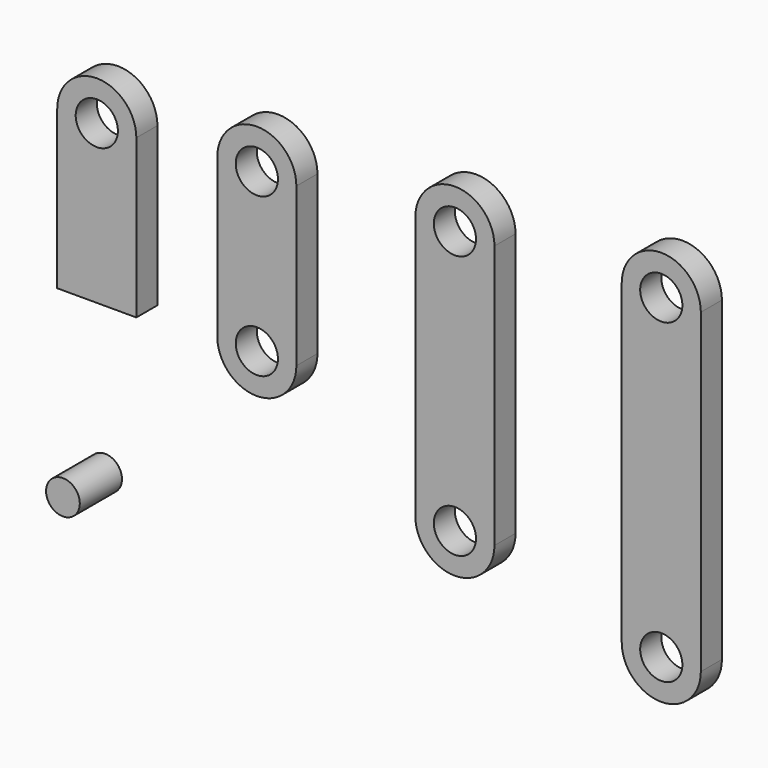
from build123d import *

# Parameters (mm, degrees)
F1_DEPTH = 2.5
F3_DEPTH = 2.5
F5_DEPTH = 2.5
F7_DEPTH = 2.5
F8_R     = 3.2
F9_DEPTH = 5


with BuildPart() as f1:
    # F0 (on Front) → F1 (new body, symmetric)
    with BuildSketch(Plane.XZ):
        with BuildLine():
            ThreePointArc((-56.3655619472, 52.3408753172), (-52.3655619472, 56.3408753172), (-48.3655619472, 52.3408753172))
            Line((-48.3655619472, 52.3408753172), (-44.8655619472, 52.3408753172))
            ThreePointArc((-44.8655619472, 52.3408753172), (-52.3655619472, 59.8408753172), (-59.8655619472, 52.3408753172))
            Line((-59.8655619472, 52.3408753172), (-56.3655619472, 52.3408753172))
        make_face()
        with BuildLine():
            Line((-44.8655619472, 52.3408753172), (-48.3655619472, 52.3408753172))
            ThreePointArc((-48.3655619472, 52.3408753172), (-52.3655619472, 48.3408753172), (-56.3655619472, 52.3408753172))
            Line((-56.3655619472, 52.3408753172), (-59.8655619472, 52.3408753172))
            Line((-59.8655619472, 52.3408753172), (-59.8655619472, 22.3408753172))
            Line((-59.8655619472, 22.3408753172), (-44.8655619472, 22.3408753172))
            Line((-44.8655619472, 22.3408753172), (-44.8655619472, 52.3408753172))
        make_face()
    extrude(amount=F1_DEPTH, both=True)


with BuildPart() as f3:
    # F2 (on Front) → F3 (new body, symmetric)
    with BuildSketch(Plane.XZ):
        with BuildLine():
            ThreePointArc((-26.0166939691, 54.1555335373), (-22.0166939691, 58.1555335373), (-18.0166939691, 54.1555335373))
            Line((-18.0166939691, 54.1555335373), (-14.5166939691, 54.1555335373))
            ThreePointArc((-14.5166939691, 54.1555335373), (-22.0166939691, 61.6555335373), (-29.5166939691, 54.1555335373))
            Line((-29.5166939691, 54.1555335373), (-26.0166939691, 54.1555335373))
        make_face()
        with BuildLine():
            Line((-14.5166939691, 54.1555335373), (-18.0166939691, 54.1555335373))
            ThreePointArc((-18.0166939691, 54.1555335373), (-22.0166939691, 50.1555335373), (-26.0166939691, 54.1555335373))
            Line((-26.0166939691, 54.1555335373), (-29.5166939691, 54.1555335373))
            Line((-29.5166939691, 54.1555335373), (-29.5166939691, 24.1555335373))
            Line((-29.5166939691, 24.1555335373), (-26.0166939691, 24.1555335373))
            ThreePointArc((-26.0166939691, 24.1555335373), (-22.0166939691, 28.1555335373), (-18.0166939691, 24.1555335373))
            Line((-18.0166939691, 24.1555335373), (-14.5166939691, 24.1555335373))
            Line((-14.5166939691, 24.1555335373), (-14.5166939691, 54.1555335373))
        make_face()
        with BuildLine():
            ThreePointArc((-29.5166939691, 24.1555335373), (-22.0166939691, 16.6555335373), (-14.5166939691, 24.1555335373))
            Line((-14.5166939691, 24.1555335373), (-18.0166939691, 24.1555335373))
            ThreePointArc((-18.0166939691, 24.1555335373), (-22.0166939691, 20.1555335373), (-26.0166939691, 24.1555335373))
            Line((-26.0166939691, 24.1555335373), (-29.5166939691, 24.1555335373))
        make_face()
    extrude(amount=F3_DEPTH, both=True)


with BuildPart() as f5:
    # F4 (on Front) → F5 (new body, symmetric)
    with BuildSketch(Plane.XZ):
        with BuildLine():
            ThreePointArc((11.548390547, 56.360590132), (15.548390547, 60.360590132), (19.548390547, 56.360590132))
            Line((19.548390547, 56.360590132), (23.048390547, 56.360590132))
            ThreePointArc((23.048390547, 56.360590132), (15.548390547, 63.860590132), (8.048390547, 56.360590132))
            Line((8.048390547, 56.360590132), (11.548390547, 56.360590132))
        make_face()
        with BuildLine():
            Line((23.048390547, 56.360590132), (19.548390547, 56.360590132))
            ThreePointArc((19.548390547, 56.360590132), (15.548390547, 52.360590132), (11.548390547, 56.360590132))
            Line((11.548390547, 56.360590132), (8.048390547, 56.360590132))
            Line((8.048390547, 56.360590132), (8.048390547, 6.360590132))
            Line((8.048390547, 6.360590132), (11.548390547, 6.360590132))
            ThreePointArc((11.548390547, 6.360590132), (15.548390547, 10.360590132), (19.548390547, 6.360590132))
            Line((19.548390547, 6.360590132), (23.048390547, 6.360590132))
            Line((23.048390547, 6.360590132), (23.048390547, 56.360590132))
        make_face()
        with BuildLine():
            ThreePointArc((8.048390547, 6.360590132), (15.548390547, -1.139409868), (23.048390547, 6.360590132))
            Line((23.048390547, 6.360590132), (19.548390547, 6.360590132))
            ThreePointArc((19.548390547, 6.360590132), (15.548390547, 2.360590132), (11.548390547, 6.360590132))
            Line((11.548390547, 6.360590132), (8.048390547, 6.360590132))
        make_face()
    extrude(amount=F5_DEPTH, both=True)


with BuildPart() as f7:
    # F6 (on Front) → F7 (new body, symmetric)
    with BuildSketch(Plane.XZ):
        with BuildLine():
            ThreePointArc((50.6864643693, 58.0322301321), (54.6864643693, 62.0322301321), (58.6864643693, 58.0322301321))
            Line((58.6864643693, 58.0322301321), (62.1864643693, 58.0322301321))
            ThreePointArc((62.1864643693, 58.0322301321), (54.6864643693, 65.5322301321), (47.1864643693, 58.0322301321))
            Line((47.1864643693, 58.0322301321), (50.6864643693, 58.0322301321))
        make_face()
        with BuildLine():
            Line((62.1864643693, 58.0322301321), (58.6864643693, 58.0322301321))
            ThreePointArc((58.6864643693, 58.0322301321), (54.6864643693, 54.0322301321), (50.6864643693, 58.0322301321))
            Line((50.6864643693, 58.0322301321), (47.1864643693, 58.0322301321))
            Line((47.1864643693, 58.0322301321), (47.1864643693, -1.9677698679))
            Line((47.1864643693, -1.9677698679), (50.6864643693, -1.9677698679))
            ThreePointArc((50.6864643693, -1.9677698679), (54.6864643693, 2.0322301321), (58.6864643693, -1.9677698679))
            Line((58.6864643693, -1.9677698679), (62.1864643693, -1.9677698679))
            Line((62.1864643693, -1.9677698679), (62.1864643693, 58.0322301321))
        make_face()
        with BuildLine():
            ThreePointArc((47.1864643693, -1.9677698679), (54.6864643693, -9.4677698679), (62.1864643693, -1.9677698679))
            Line((62.1864643693, -1.9677698679), (58.6864643693, -1.9677698679))
            ThreePointArc((58.6864643693, -1.9677698679), (54.6864643693, -5.9677698679), (50.6864643693, -1.9677698679))
            Line((50.6864643693, -1.9677698679), (47.1864643693, -1.9677698679))
        make_face()
    extrude(amount=F7_DEPTH, both=True)


with BuildPart() as f9:
    # F8 (on Front) → F9 (new body, symmetric)
    with BuildSketch(Plane.XZ):
        with Locations((-56.787956506, -10.5360774323)):
            Circle(F8_R)
    extrude(amount=F9_DEPTH, both=True)


solid = Compound([f1.part, f3.part, f5.part, f7.part, f9.part])
